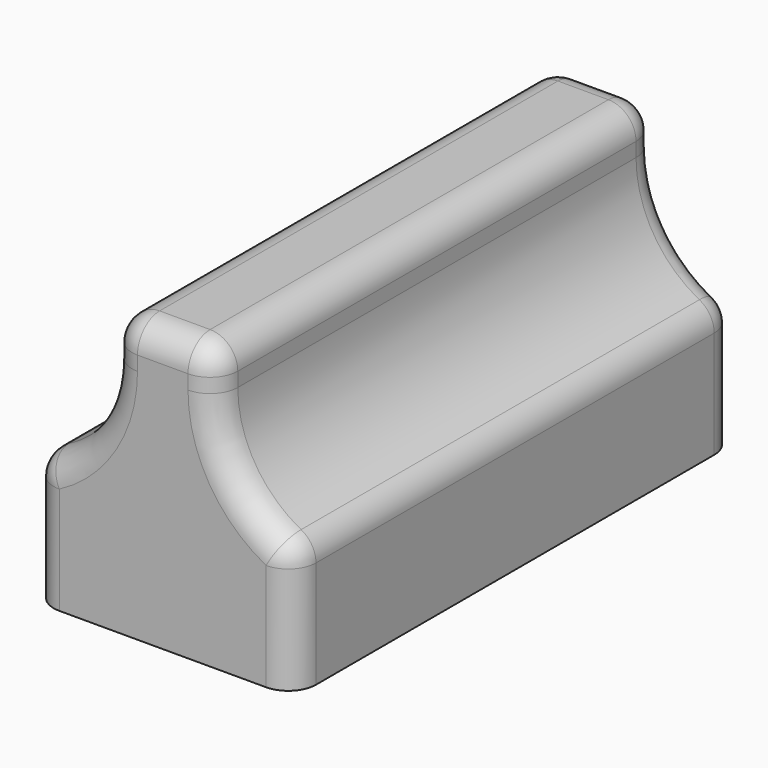
from build123d import *

# Parameters (mm, degrees)
F0_W     = 60.2
F0_H     = 28.76024
F0_W_2   = 24.29437
F0_H_2   = 9.646292
F1_DEPTH = 63.5
F2_R     = 6.35


with BuildPart() as f1:
    # F0 (on Front) → F1 (new body, symmetric)
    with BuildSketch(Plane.XZ):
        Rectangle(F0_W, F0_H)
        with BuildLine():
            Line((-30.1, 14.38012), (30.1, 14.38012))
            ThreePointArc((30.1, 14.38012), (17.085972, 24.279043), (12.147185, 39.866282))
            Line((12.147185, 39.866282), (-12.147185, 39.866282))
            ThreePointArc((-12.147185, 39.866282), (-17.085972, 24.279043), (-30.1, 14.38012))
        make_face()
        with Locations((0, 44.689428)):
            Rectangle(F0_W_2, F0_H_2)
    extrude(amount=F1_DEPTH, both=True)

    # F2
    f2_edges = [f1.edges().sort_by_distance(p)[0] for p in [
        (-30.1, -63.5, 0),
        (30.1, -63.5, 0),
        (-30.1, 63.5, 0),
        (30.1, 63.5, 0),
        (0, 63.5, 49.512574),
        (0, -63.5, 49.512574),
        (12.147185, 0, 49.512574),
        (30.1, 0, 14.38012),
        (-30.1, 0, 14.38012),
        (-12.147185, 0, 49.512574),
        (-17.085972, 63.5, 24.279043),
        (17.085972, 63.5, 24.279043),
        (17.085972, -63.5, 24.279043),
        (-17.085972, -63.5, 24.279043),
    ]]
    fillet(f2_edges, radius=F2_R)


solid = f1.part
